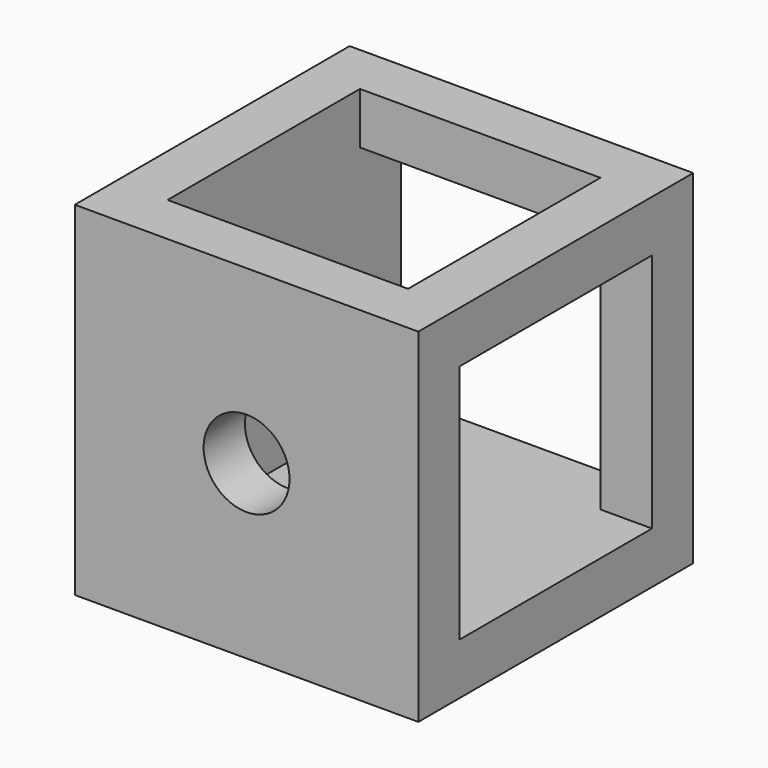
from build123d import *

# Parameters (mm, degrees)
SKETCH033_W     = 20
SKETCH033_H     = 20
PAD015_DEPTH    = 10
SKETCH034_R     = 2.5
HOLE009_DEPTH   = 25
SKETCH035_R     = 2.5
HOLE010_DEPTH   = 25
SKETCH036_R     = 2.5
HOLE011_DEPTH   = 25
SKETCH037_W     = 14
SKETCH037_H     = 14
POCKET009_DEPTH = 17
SKETCH038_W     = 14
SKETCH038_H     = 14
POCKET010_DEPTH = 17
SKETCH039_W     = 14
SKETCH039_H     = 14
POCKET011_DEPTH = 17


with BuildPart() as part:
    # Sketch033 → Pad015 (new body, symmetric)
    with BuildSketch(Plane.XZ):
        Rectangle(SKETCH033_W, SKETCH033_H)
    extrude(amount=PAD015_DEPTH, both=True)

    # Sketch034 (on Face1 of Pad015) → Hole009 (cut)
    with BuildSketch(Plane(origin=(0, 0, 10), x_dir=(-1, 0, 0), z_dir=(0, 0, 1))):
        Circle(SKETCH034_R)
    extrude(amount=-HOLE009_DEPTH, mode=Mode.SUBTRACT)

    # Sketch035 (on Face2 of Hole009) → Hole010 (cut)
    with BuildSketch(Plane(origin=(10, 0, 0), x_dir=(0, 0, 1), z_dir=(1, 0, 0))):
        Circle(SKETCH035_R)
    extrude(amount=-HOLE010_DEPTH, mode=Mode.SUBTRACT)

    # Sketch036 (on Face3 of Hole009) → Hole011 (cut)
    with BuildSketch(Plane(origin=(0, 10, 0), x_dir=(1, 0, 0), z_dir=(0, 1, 0))):
        Circle(SKETCH036_R)
    extrude(amount=-HOLE011_DEPTH, mode=Mode.SUBTRACT)

    # Sketch037 (on Face2 of Hole011) → Pocket009 (cut)
    with BuildSketch(Plane(origin=(10, 0, 0), x_dir=(0, 0, 1), z_dir=(1, 0, 0))):
        Rectangle(SKETCH037_W, SKETCH037_H)
    extrude(amount=-POCKET009_DEPTH, mode=Mode.SUBTRACT)

    # Sketch038 (on Face3 of Pocket009) → Pocket010 (cut)
    with BuildSketch(Plane(origin=(0, 10, 0), x_dir=(1, 0, 0), z_dir=(0, 1, 0))):
        Rectangle(SKETCH038_W, SKETCH038_H)
    extrude(amount=-POCKET010_DEPTH, mode=Mode.SUBTRACT)

    # Sketch039 (on Face1 of Pocket010) → Pocket011 (cut)
    with BuildSketch(Plane(origin=(0, 0, 10), x_dir=(-1, 0, 0), z_dir=(0, 0, 1))):
        Rectangle(SKETCH039_W, SKETCH039_H)
    extrude(amount=-POCKET011_DEPTH, mode=Mode.SUBTRACT)


solid = part.part
